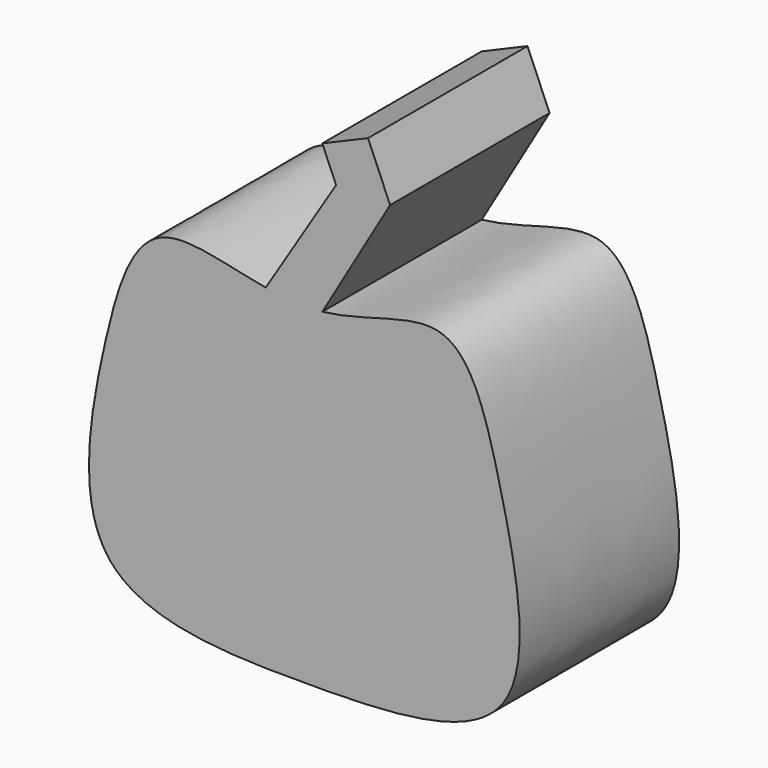
from build123d import *

# Parameters (mm, degrees)
F1_DEPTH = 50


with BuildPart() as f1:
    # F0 (on Front) → F1 (new body)
    with BuildSketch(Plane.XZ):
        with BuildLine():
            add(Edge.make_bspline(
                [(-51.2294247746, 0), (-48.0854485282, 13.6071053032), (-41.927826313, 33.8464912874), (-20.8497275357, 26.5603434156), (-11.0291788949, 24.8378052114)],
                knots=[0, 0, 0, 0, 0.1092204456, 0.1955358624, 0.1955358624, 0.1955358624, 0.1955358624], degree=3))
            add(Edge.make_bspline(
                [(3.1658646185, 24.1252042403), (14.9152500947, 25.4625918381), (37.628007928, 37.9190156376), (48.549181092, -0.6511716252), (60.2302108757, -57.760654384), (-0.1215901237, -59.9313006371), (-62.1199501481, -58.2900027863), (-55.1148803249, -16.8162220956), (-51.2294247746, 0)],
                knots=[0.23685046, 0.23685046, 0.23685046, 0.23685046, 0.3406016633, 0.4520302399, 0.5870032511, 0.7246666849, 0.8650208674, 1, 1, 1, 1], degree=3))
            add(Edge.make_bspline(
                [(-11.0291788949, 24.8378052114), (-7.3831237705, 24.198281955), (-2.5908458949, 23.6392497789), (2.1162519942, 24.0057308509), (3.1658646185, 24.1252042403)],
                knots=[0.1955358624, 0.1955358624, 0.1955358624, 0.1955358624, 0.2275820116, 0.23685046, 0.23685046, 0.23685046, 0.23685046], degree=3))
        make_face()
        with BuildLine():
            Line((6.6148478992, 53.2173570817), (-11.0291788949, 24.8378052114))
            add(Edge.make_bspline(
                [(-11.0291788949, 24.8378052114), (-7.3831237705, 24.198281955), (-2.5908458949, 23.6392497789), (2.1162519942, 24.0057308509), (3.1658646185, 24.1252042403)],
                knots=[0.1955358624, 0.1955358624, 0.1955358624, 0.1955358624, 0.2275820116, 0.23685046, 0.23685046, 0.23685046, 0.23685046], degree=3))
            Line((3.1658646185, 24.1252042403), (20.1712839563, 53.2173570817))
            Line((20.1712839563, 53.2173570817), (14.6352494443, 66.1951935157))
            Line((14.6352494443, 66.1951935157), (3.1658646185, 61.3026283682))
            Line((3.1658646185, 61.3026283682), (6.6148478992, 53.2173570817))
        make_face()
    extrude(amount=F1_DEPTH)


solid = f1.part
